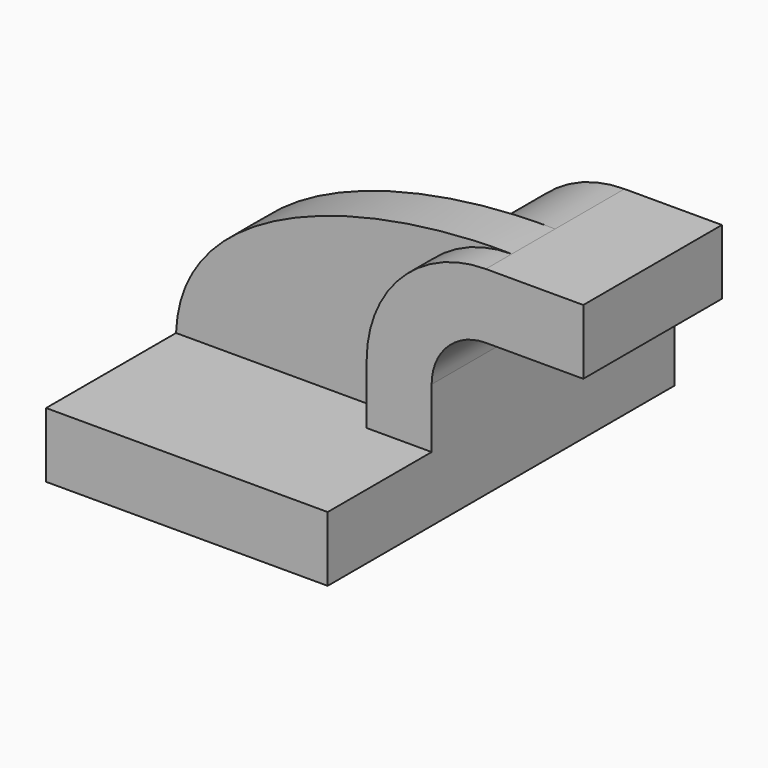
from build123d import *

# Parameters (mm, degrees)
F1_DEPTH = 63.5
F0_W     = 25.4
F0_H     = 19.05
F2_DEPTH = 25.4
F3_DEPTH = 15.875


with BuildPart() as f1:
    # F0 (on Front) → F1 (new body, symmetric)
    with BuildSketch(Plane.XZ):
        Polygon((41.275, -9.525), (41.275, 9.525), (22.225, 9.525), (-41.275, 9.525), (-41.275, -9.525), align=None)
    extrude(amount=F1_DEPTH, both=True)

    # F0 (on Front) → F2 (join, symmetric)
    with BuildSketch(Plane.XZ):
        with BuildLine():
            Line((22.225, 9.525), (41.275, 9.525))
            Line((41.275, 9.525), (41.275, 27.0002))
            ThreePointArc((41.275, 27.0002), (45.9246798487, 38.2255201513), (57.15, 42.8752))
            Line((57.15, 42.8752), (60.325, 42.8752))
            Line((60.325, 42.8752), (60.325, 61.9252))
            Line((60.325, 61.9252), (57.15, 61.9252))
            ThreePointArc((57.15, 61.9252), (32.4542956671, 51.6959043329), (22.225, 27.0002))
            Line((22.225, 27.0002), (22.225, 9.525))
        make_face()
        with Locations((73.025, 52.4002)):
            Rectangle(F0_W, F0_H)
    extrude(amount=F2_DEPTH, both=True)

    # F0 (on Front) → F3 (join)
    with BuildSketch(Plane.XZ):
        with BuildLine():
            Line((-41.275, 9.525), (22.225, 9.525))
            Line((22.225, 9.525), (22.225, 27.0002))
            ThreePointArc((22.225, 27.0002), (32.4542956671, 51.6959043329), (57.15, 61.9252))
            add(Edge.make_bspline(
                [(-41.275, 9.525), (-39.9924255908, 47.1598803997), (14.5989470184, 62.7080574632), (57.15, 61.9252)],
                knots=[0, 0, 0, 0, 111.5045361635, 111.5045361635, 111.5045361635, 111.5045361635], degree=3))
        make_face()
    extrude(amount=F3_DEPTH)


solid = f1.part
